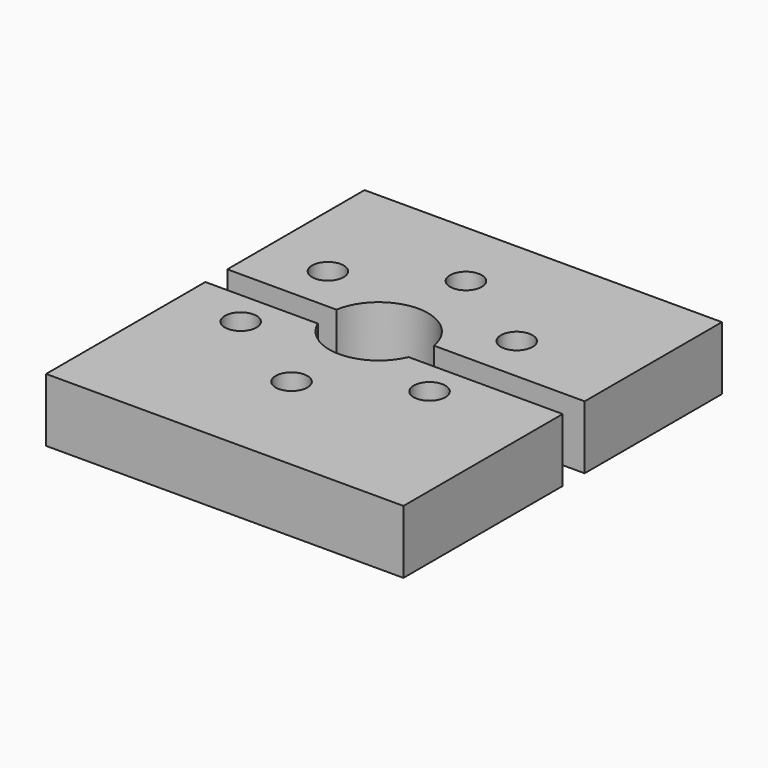
from build123d import *

# Parameters (mm, degrees)
F0_W     = 143.22525
F0_H     = 159.550425
F0_R     = 6.35
F0_R_2   = 19.796196
F1_DEPTH = 25.4
F2_SIZE  = 5.08
F3_W     = 143.22525
F3_H     = 11.012347
F4_DEPTH = 25.4


with BuildPart() as f1:
    # F0 (on Top) → F1 (new body)
    with BuildSketch(Plane.XY):
        with Locations((8.344894, -7.784238)):
            Rectangle(F0_W, F0_H)
        with Locations((-37.837783, -21.845654)):
            Circle(F0_R, mode=Mode.SUBTRACT)
        with Locations((0, -43.691309)):
            Circle(F0_R, mode=Mode.SUBTRACT)
        with Locations((37.837783, -21.845654)):
            Circle(F0_R, mode=Mode.SUBTRACT)
        with Locations((-37.837783, 21.845654)):
            Circle(F0_R, mode=Mode.SUBTRACT)
        Circle(F0_R_2, mode=Mode.SUBTRACT)
        with Locations((0, 43.691309)):
            Circle(F0_R, mode=Mode.SUBTRACT)
        with Locations((37.837783, 21.845654)):
            Circle(F0_R, mode=Mode.SUBTRACT)
    extrude(amount=F1_DEPTH)

    # F2
    f2_edges = [f1.edges().sort_by_distance(p)[0] for p in [
        (-6.35, -43.691309, 0),
        (31.487783, -21.845654, 0),
        (31.487783, 21.845654, 0),
        (-6.35, 43.691309, 0),
        (-44.187783, 21.845654, 0),
        (-44.187783, -21.845654, 0),
    ]]
    chamfer(f2_edges, length=F2_SIZE)

    # F3 (on face) → F4 (cut)
    with BuildSketch(Plane.XY.offset(25.4)):
        with Locations((8.344894, -2.278064)):
            Rectangle(F3_W, F3_H)
    extrude(amount=-F4_DEPTH, mode=Mode.SUBTRACT)


solid = f1.part
